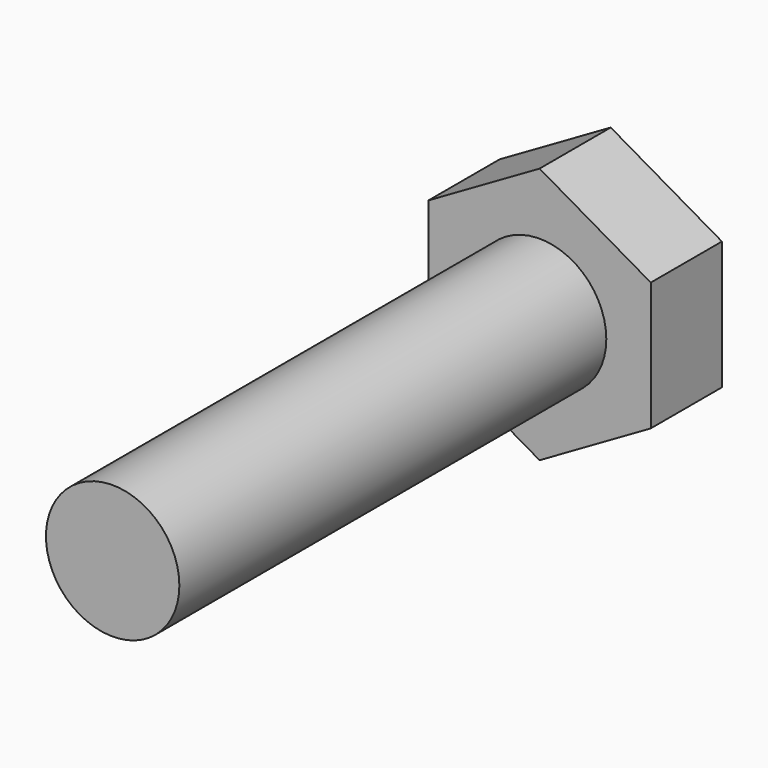
from build123d import *

# Parameters (mm, degrees)
F0_R     = 1.5
F1_DEPTH = 2
F2_R     = 1.5
F3_DEPTH = 12


with BuildPart() as f1:
    # F0 (on Front) → F1 (new body)
    with BuildSketch(Plane.XZ):
        Polygon((-2.5, 1.443376), (-2.5, -1.443376), (0, -2.886751), (2.5, -1.443376), (2.5, 1.443376), (0, 2.886751), align=None)
        Circle(F0_R, mode=Mode.SUBTRACT)
        Circle(F0_R)
    extrude(amount=F1_DEPTH)

    # F2 (on face) → F3 (join)
    with BuildSketch(Plane.XZ.offset(2)):
        Circle(F2_R)
    extrude(amount=F3_DEPTH)


solid = f1.part
